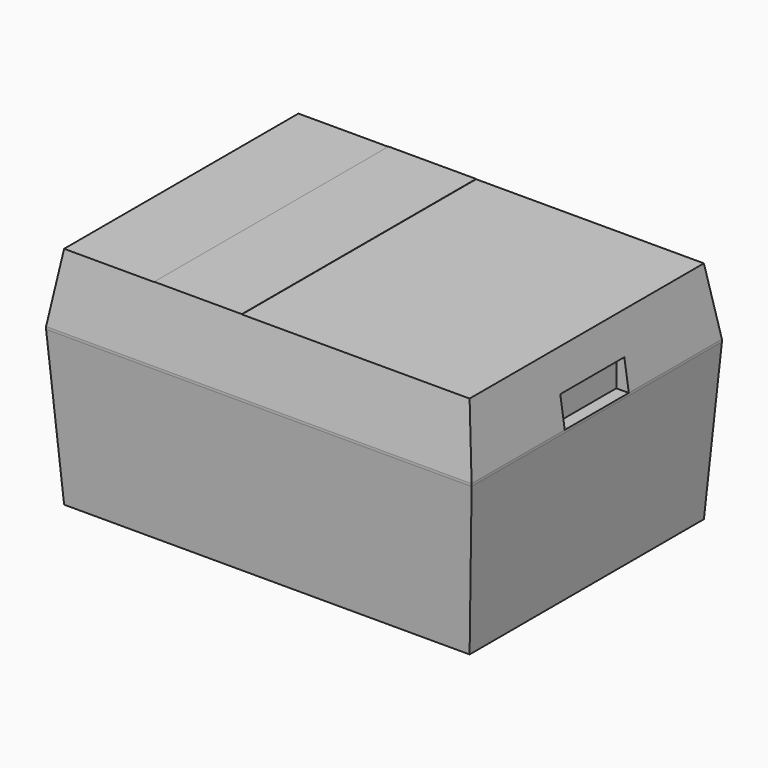
from build123d import *

# Parameters (mm, degrees)
SKETCH004_W       = 0.35
SKETCH004_H       = 1.17
PAD_DEPTH         = 0.001
PAD001_DEPTH      = 0.16
PAD001_DEPTH_BACK = 0.16
SKETCH_W          = 1.62
SKETCH_H          = 1.17
SKETCH001_W       = 1.7
SKETCH001_H       = 1.25
SKETCH002_W       = 1.7
SKETCH002_H       = 1.25
SKETCH003_W       = 1.62
SKETCH003_H       = 1.17


with BuildPart() as label:
    # Sketch004 → Pad (new body)
    with BuildSketch(Plane.XY):
        with Locations((-0.275, 0)):
            Rectangle(SKETCH004_W, SKETCH004_H)
    extrude(amount=PAD_DEPTH)


with BuildPart() as label_1:
    # Body001 placement: moved
    add(label.part.moved(Location((0, 0, 0.95))))


with BuildPart() as body002:
    # Sketch005 → Pad001 (new body, two sides)
    with BuildSketch(Plane.XZ) as pad001_sk:
        with BuildLine():
            Line((0.8, 0.8), (0.85, 0.8))
            ThreePointArc((1.059721, 0.600818), (0.994617, 0.742269), (0.85, 0.8))
            Line((1.059721, 0.600818), (1.080119, 0.205364))
            ThreePointArc((1.080119, 0.205364), (1.108021, 0.144742), (1.17, 0.12))
            Line((1.17, 0.12), (1.25, 0.12))
            Line((1.25, 0.12), (1.25, 0))
            Line((1.25, 0), (1.17, 0))
            ThreePointArc((0.960279, 0.199182), (1.025383, 0.057731), (1.17, 0))
            Line((0.960279, 0.199182), (0.939881, 0.594636))
            ThreePointArc((0.939881, 0.594636), (0.911979, 0.655258), (0.85, 0.68))
            Line((0.85, 0.68), (0.8, 0.68))
            Line((0.8, 0.68), (0.8, 0.8))
        make_face()
    extrude(amount=PAD001_DEPTH)
    extrude(pad001_sk.sketch, amount=-PAD001_DEPTH_BACK)


with BuildPart() as body003:
    # Part__Mirroring: instance of Body002
    add(body002.part.mirror(Plane(origin=(0, 0, 0), x_dir=(0, -1, 0), z_dir=(1, 0, 0))))

    # Compound: union Body002
    add(body002.part)


with BuildPart() as body004:
    # Sketch → AdditiveLoft section 0
    with BuildSketch(Plane.XY):
        Rectangle(SKETCH_W, SKETCH_H)
    # Sketch001 → AdditiveLoft section 1
    with BuildSketch(Plane.XY.offset(0.62)):
        Rectangle(SKETCH001_W, SKETCH001_H)
    # Sketch002 → AdditiveLoft section 2
    with BuildSketch(Plane.XY.offset(0.63)):
        Rectangle(SKETCH002_W, SKETCH002_H)
    # Sketch003 → AdditiveLoft section 3
    with BuildSketch(Plane.XY.offset(0.9)):
        Rectangle(SKETCH003_W, SKETCH003_H)
    loft(ruled=True)


with BuildPart() as body004_1:
    # Body placement: moved
    add(body004.part.moved(Location((0, 0, 0.05))))

    # Cut: cut Body003
    add(body003.part, mode=Mode.SUBTRACT)


solid = Compound([label_1.part, body004_1.part])
